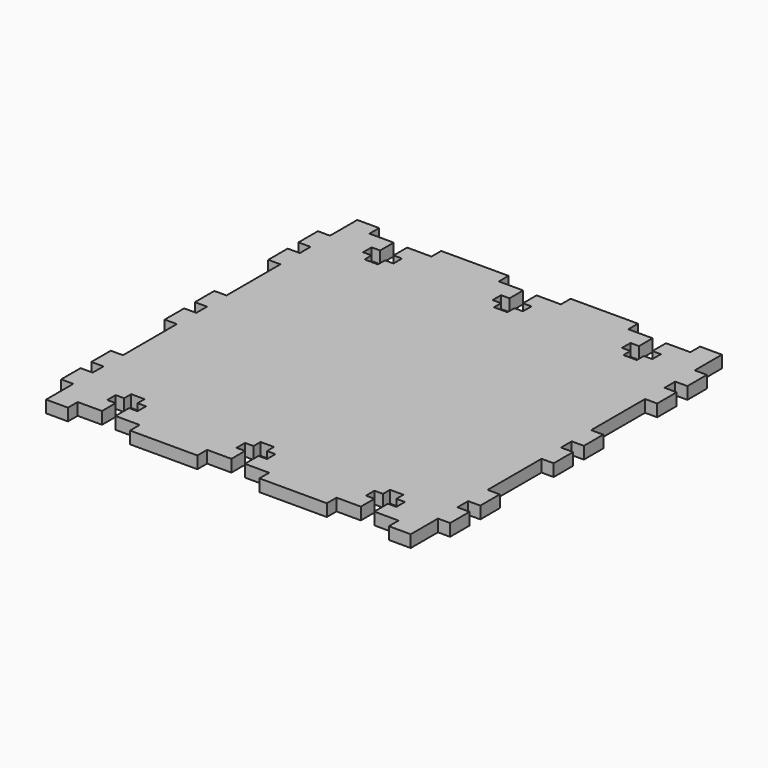
from build123d import *

# Parameters (mm, degrees)
F0_W     = 3.175
F0_H     = 6.35
F1_DEPTH = 3.175


with BuildPart() as f1:
    # F0 (on Top) → F1 (new body)
    with BuildSketch(Plane.XY):
        Polygon((-39.248684, 94.540516), (-44.963684, 94.540516), (-44.963684, 85.650516), (-44.963684, 79.300516), (-44.963684, 75.795316), (-44.963684, 69.445316), (-44.963684, 51.843116), (-44.963684, 45.493116), (-44.963684, 43.740516), (50.286316, 43.740516), (50.286316, 45.493116), (50.286316, 51.843116), (50.286316, 69.445316), (50.286316, 75.795316), (50.286316, 79.300516), (50.286316, 85.650516), (50.286316, 94.540516), (44.571316, 94.540516), (44.571316, 91.365516), (38.221316, 91.365516), (38.221316, 86.920516), (40.437466, 86.920516), (40.437466, 84.142391), (38.221316, 84.142391), (38.221316, 81.840516), (34.716116, 81.840516), (34.716116, 84.142391), (32.499966, 84.142391), (32.499966, 86.920516), (34.716116, 86.920516), (34.716116, 91.365516), (28.366116, 91.365516), (28.366116, 94.540516), (10.763916, 94.540516), (10.763916, 91.365516), (4.413916, 91.365516), (4.413916, 86.920516), (6.630066, 86.920516), (6.630066, 84.142391), (4.413916, 84.142391), (4.413916, 81.840516), (0.908716, 81.840516), (0.908716, 84.142391), (-1.307434, 84.142391), (-1.307434, 86.920516), (0.908716, 86.920516), (0.908716, 91.365516), (-5.441284, 91.365516), (-5.441284, 94.540516), (-23.043484, 94.540516), (-23.043484, 91.365516), (-29.393484, 91.365516), (-29.393484, 86.920516), (-27.177334, 86.920516), (-27.177334, 84.142391), (-29.393484, 84.142391), (-29.393484, 81.840516), (-32.898684, 81.840516), (-32.898684, 84.142391), (-35.114834, 84.142391), (-35.114834, 86.920516), (-32.898684, 86.920516), (-32.898684, 91.365516), (-39.248684, 91.365516), align=None)
        Polygon((50.286316, 43.740516), (-44.963684, 43.740516), (-44.963684, 41.987916), (-44.963684, 35.637916), (-44.963684, 18.035716), (-44.963684, 11.685716), (-44.963684, 8.180516), (-44.963684, 1.830516), (-44.963684, -7.059484), (-39.248684, -7.059484), (-39.248684, -3.884484), (-32.898684, -3.884484), (-32.898684, 0.560516), (-35.114834, 0.560516), (-35.114834, 3.338641), (-32.898684, 3.338641), (-32.898684, 5.640516), (-29.393484, 5.640516), (-29.393484, 3.338641), (-27.177334, 3.338641), (-27.177334, 0.560516), (-29.393484, 0.560516), (-29.393484, -3.884484), (-23.043484, -3.884484), (-23.043484, -7.059484), (-5.441284, -7.059484), (-5.441284, -3.884484), (0.908716, -3.884484), (0.908716, 0.560516), (-1.307434, 0.560516), (-1.307434, 3.338641), (0.908716, 3.338641), (0.908716, 5.640516), (4.413916, 5.640516), (4.413916, 3.338641), (6.630066, 3.338641), (6.630066, 0.560516), (4.413916, 0.560516), (4.413916, -3.884484), (10.763916, -3.884484), (10.763916, -7.059484), (28.366116, -7.059484), (28.366116, -3.884484), (34.716116, -3.884484), (34.716116, 0.560516), (32.499966, 0.560516), (32.499966, 3.338641), (34.716116, 3.338641), (34.716116, 5.640516), (38.221316, 5.640516), (38.221316, 3.338641), (40.437466, 3.338641), (40.437466, 0.560516), (38.221316, 0.560516), (38.221316, -3.884484), (44.571316, -3.884484), (44.571316, -7.059484), (50.286316, -7.059484), (50.286316, 1.830516), (50.286316, 8.180516), (50.286316, 11.685716), (50.286316, 18.035716), (50.286316, 35.637916), (50.286316, 41.987916), align=None)
        with Locations((-46.551184, 48.668116)):
            Rectangle(F0_W, F0_H)
        with Locations((-46.551184, 72.620316)):
            Rectangle(F0_W, F0_H)
        with Locations((-46.551184, 82.475516)):
            Rectangle(F0_W, F0_H)
        with Locations((-46.551184, 38.812916)):
            Rectangle(F0_W, F0_H)
        with Locations((-46.551184, 14.860716)):
            Rectangle(F0_W, F0_H)
        with Locations((-46.551184, 5.005516)):
            Rectangle(F0_W, F0_H)
        with Locations((51.873816, 5.005516)):
            Rectangle(F0_W, F0_H)
        with Locations((51.873816, 14.860716)):
            Rectangle(F0_W, F0_H)
        with Locations((51.873816, 38.812916)):
            Rectangle(F0_W, F0_H)
        with Locations((51.873816, 48.668116)):
            Rectangle(F0_W, F0_H)
        with Locations((51.873816, 72.620316)):
            Rectangle(F0_W, F0_H)
        with Locations((51.873816, 82.475516)):
            Rectangle(F0_W, F0_H)
    extrude(amount=F1_DEPTH)


solid = f1.part
